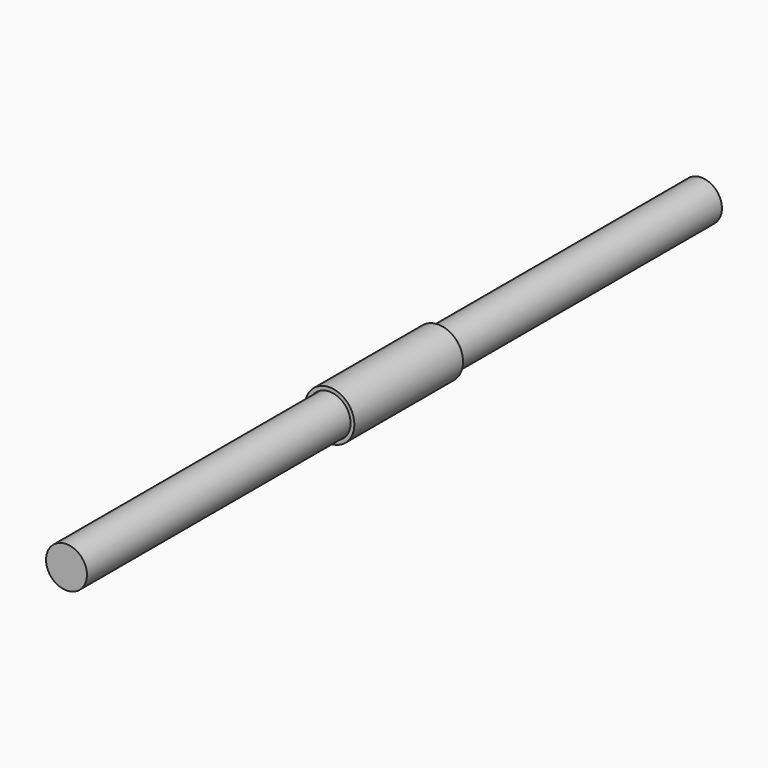
from build123d import *

# Parameters (mm, degrees)
F0_R     = 5.965067
F1_DEPTH = 115.80196
F2_R     = 7.218678
F2_R_2   = 6.108046
F3_DEPTH = 19.827146


with BuildPart() as f1:
    # F0 (on Front) → F1 (new body, symmetric)
    with BuildSketch(Plane.XZ):
        Circle(F0_R)
    extrude(amount=F1_DEPTH, both=True)


with BuildPart() as f3:
    # F2 (on Front) → F3 (new body, symmetric)
    with BuildSketch(Plane.XZ):
        Circle(F2_R)
        Circle(F2_R_2, mode=Mode.SUBTRACT)
    extrude(amount=F3_DEPTH, both=True)


solid = Compound([f1.part, f3.part])
